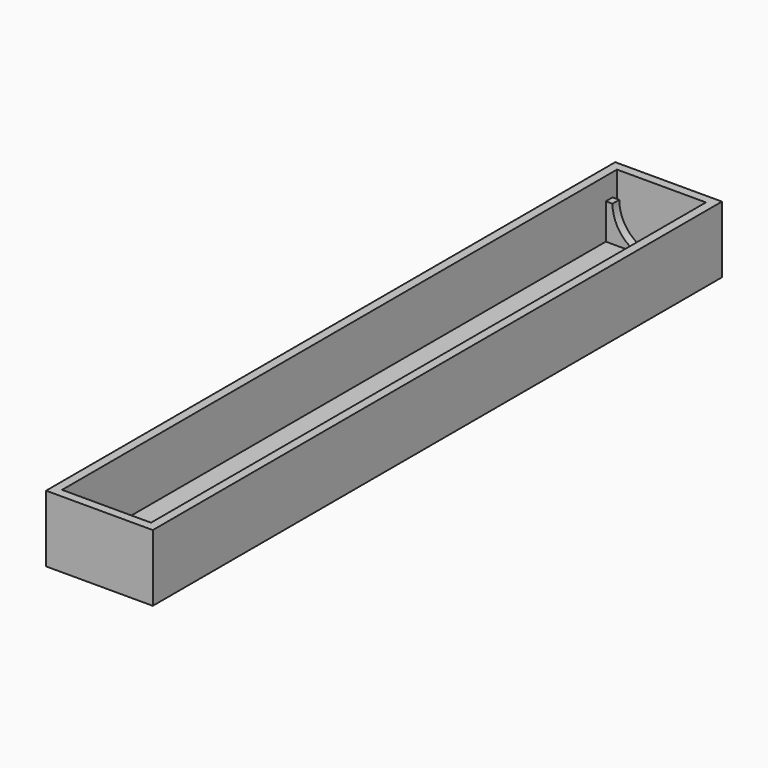
from build123d import *

# Parameters (mm, degrees)
F0_W     = 24
F0_H     = 160
F1_DEPTH = 15
F2_T     = -2
F3_W     = 20
F3_H     = 1.90571
F4_DEPTH = 8
F5_R     = 8.5
F6_DEPTH = 2


with BuildPart() as f1:
    # F0 (on Top) → F1 (new body)
    with BuildSketch(Plane.XY):
        Rectangle(F0_W, F0_H)
    extrude(amount=F1_DEPTH)

    # F2
    f2_openings = [f1.faces().sort_by_distance(p)[0] for p in [
        (0, 0, 15),
    ]]
    offset(amount=F2_T, openings=f2_openings)

    # F3 (on face) → F4 (join)
    with BuildSketch(Plane.XY.offset(2)):
        with Locations((0, 75.811416)):
            Rectangle(F3_W, F3_H)
    extrude(amount=F4_DEPTH)

    # F5 (on face) → F6 (cut)
    with BuildSketch(Plane.XZ.offset(-74.858561)):
        with Locations((0, 10)):
            Circle(F5_R)
    extrude(amount=-F6_DEPTH, mode=Mode.SUBTRACT)


solid = f1.part
